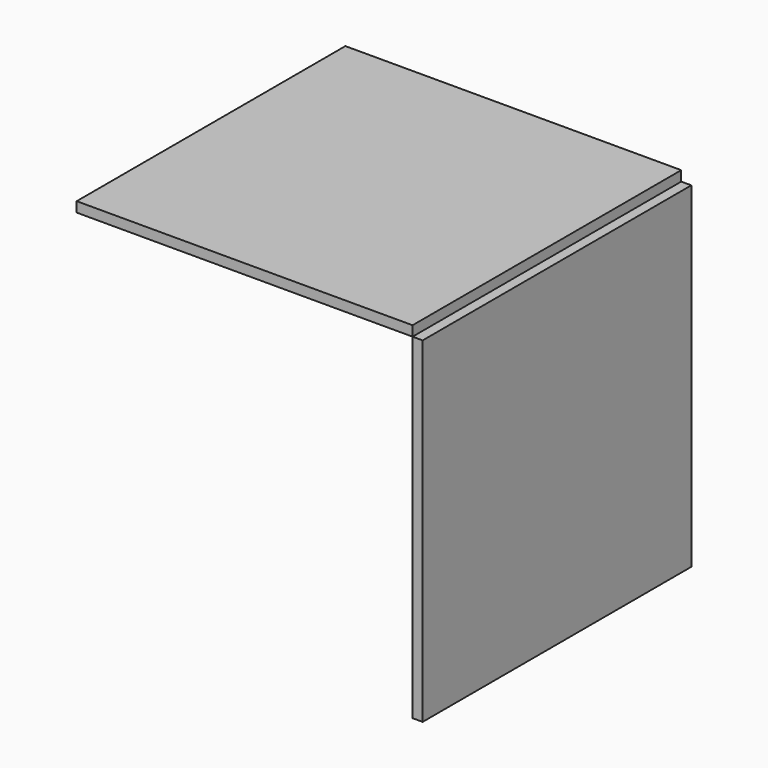
from build123d import *

# Parameters (mm, degrees)
F2_W     = 100
F2_H     = 100
F3_DEPTH = 3
F4_W     = 100
F4_H     = 100
F5_DEPTH = 3


with BuildPart() as f3:
    # F2 (on offset) → F3 (new body)
    with BuildSketch(Plane.YZ.offset(50)):
        with Locations((0, -50)):
            Rectangle(F2_W, F2_H)
    extrude(amount=F3_DEPTH)


with BuildPart() as f5:
    # F4 (on Top) → F5 (new body)
    with BuildSketch(Plane.XY):
        Rectangle(F4_W, F4_H)
    extrude(amount=F5_DEPTH)


solid = Compound([f3.part, f5.part])
